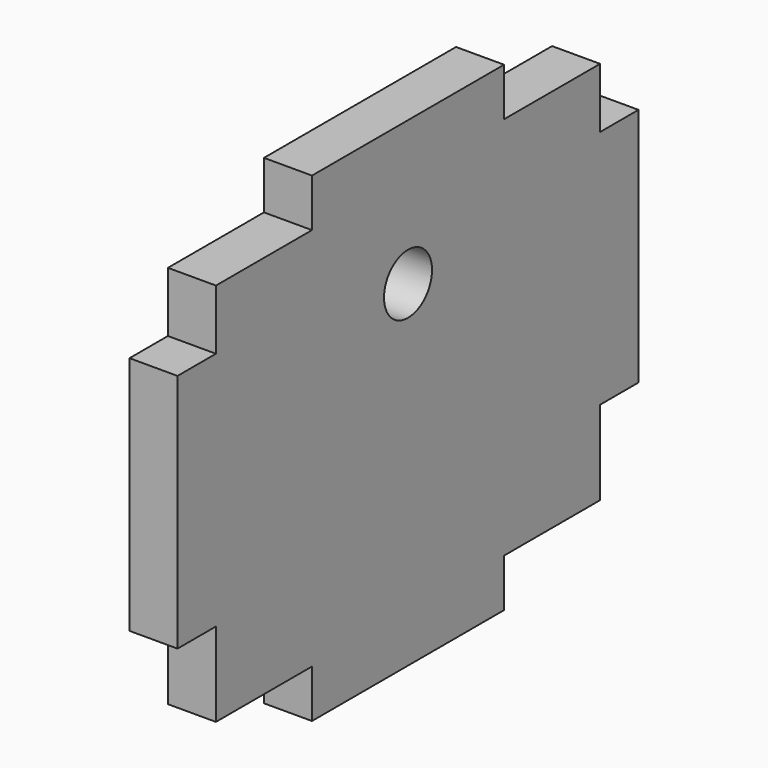
from build123d import *

# Parameters (mm, degrees)
F1_DEPTH = 5.08
F2_R     = 3.175
F3_DEPTH = 25.4
F4_W     = 5.08
F4_H     = 25.4
F5_DEPTH = 5.08


with BuildPart() as f1:
    # F0 (on Right) → F1 (new body)
    with BuildSketch(Plane.YZ):
        Polygon((12.7, 5.08), (12.7, 0), (38.1, 0), (38.1, 5.08), (50.8, 5.08), (50.8, 45.72), (38.1, 45.72), (38.1, 50.8), (12.7, 50.8), (12.7, 45.72), (0, 45.72), (0, 5.08), align=None)
    extrude(amount=F1_DEPTH)

    # F2 (on face) → F3 (cut)
    with BuildSketch(Plane.YZ.offset(5.08)):
        with Locations((25.4, 35.56)):
            Circle(F2_R)
    extrude(amount=-F3_DEPTH, mode=Mode.SUBTRACT)

    # F4 (on face) → F5 (join)
    with BuildSketch(Plane.YZ.offset(5.08)):
        with Locations((-2.54, 26.67)):
            Rectangle(F4_W, F4_H)
        with Locations((53.34, 26.67)):
            Rectangle(F4_W, F4_H)
    extrude(amount=-F5_DEPTH)


solid = f1.part
